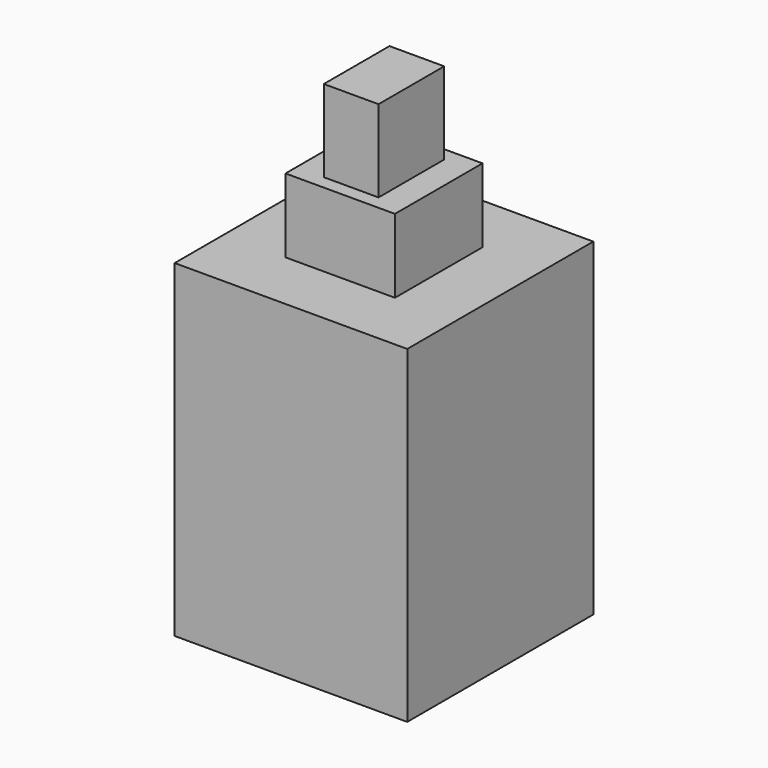
from build123d import *

# Parameters (mm, degrees)
BOX075_W     = 4
BOX075_H     = 4
BOX075_DEPTH = 5.5
BOX076_W     = 8.5
BOX076_H     = 8.5
BOX076_DEPTH = 3.5
BOX078_W     = 2
BOX078_H     = 3
BOX078_DEPTH = 3
BOX074_W     = 8.5
BOX074_H     = 8.5
BOX074_DEPTH = 8.5


with BuildPart() as plunger:
    # Box075 → Box075 (new body)
    with BuildSketch(Plane(origin=(-2, -2, 5.7), x_dir=(1, 0, 0), z_dir=(0, 0, 1))):
        with Locations((2, 2)):
            Rectangle(BOX075_W, BOX075_H)
    extrude(amount=BOX075_DEPTH)


with BuildPart() as pins:
    # Box076 → Box076 (new body)
    with BuildSketch(Plane(origin=(-4.25, -4.25, -3.5), x_dir=(1, 0, 0), z_dir=(0, 0, 1))):
        with Locations((4.25, 4.25)):
            Rectangle(BOX076_W, BOX076_H)
    extrude(amount=BOX076_DEPTH)


with BuildPart() as plunger001:
    # Box078 → Box078 (new body)
    with BuildSketch(Plane(origin=(-1, -1.5, 11.2), x_dir=(1, 0, 0), z_dir=(0, 0, 1))):
        with Locations((1, 1.5)):
            Rectangle(BOX078_W, BOX078_H)
    extrude(amount=BOX078_DEPTH)


with BuildPart() as switch002:
    # Box074 → Box074 (new body)
    with BuildSketch(Plane(origin=(-4.25, -4.25, 0), x_dir=(1, 0, 0), z_dir=(0, 0, 1))):
        with Locations((4.25, 4.25)):
            Rectangle(BOX074_W, BOX074_H)
    extrude(amount=BOX074_DEPTH)

    # Fusion024: union plunger, pins, plunger001
    add(plunger.part)
    add(pins.part)
    add(plunger001.part)


with BuildPart() as switch002_1:
    # Body placement: moved
    add(switch002.part.moved(Location((2, 0, 38))))


solid = switch002_1.part
